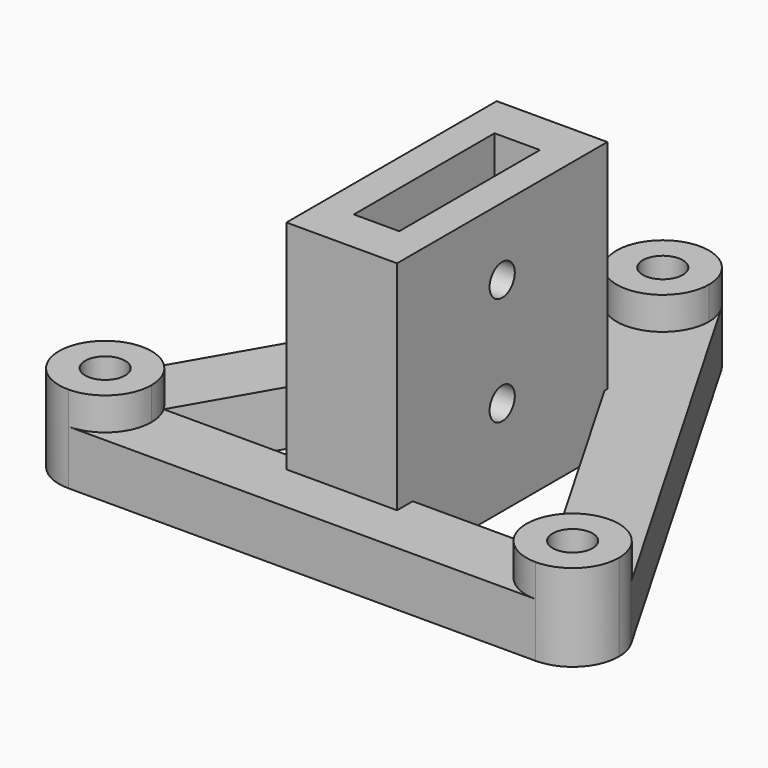
from build123d import *

# Parameters (mm, degrees)
F0_DEPTH = 5
F3_R     = 1.8375
F4_DEPTH = 8
F3_W     = 4.175
F3_H     = 16.175
F1_DEPTH = 25
F2_D     = 2.9
F6_D     = 2.9


with BuildPart() as f0:
    # F3 (on Top) → F0 (new body)
    with BuildSketch(Plane.XY):
        with BuildLine():
            Line((-21.5, -16.663031), (21.5, -16.663031))
            ThreePointArc((21.5, -16.663031), (17.819392, -14.538031), (17.819392, -10.288031))
            Line((17.819392, -10.288031), (5.0875, -10.288031))
            Line((5.0875, -10.288031), (5.0875, -12.0875))
            Line((5.0875, -12.0875), (-5.0875, -12.0875))
            Line((-5.0875, -12.0875), (-5.0875, -10.288031))
            Line((-5.0875, -10.288031), (-17.819392, -10.288031))
            ThreePointArc((-17.819392, -10.288031), (-17.394815, -11.31305), (-17.25, -12.413031))
            ThreePointArc((-17.25, -12.413031), (-18.494796, -15.418235), (-21.5, -16.663031))
        make_face()
        with BuildLine():
            ThreePointArc((17.819392, -10.288031), (21.5, -8.163031), (25.180608, -10.288031))
            Line((25.180608, -10.288031), (3.680608, 26.951062))
            ThreePointArc((3.680608, 26.951062), (4.105185, 25.926043), (4.25, 24.826062))
            ThreePointArc((4.25, 24.826062), (-1.099981, 20.720877), (-3.680608, 26.951062))
            Line((-3.680608, 26.951062), (-25.180608, -10.288031))
            ThreePointArc((-25.180608, -10.288031), (-21.5, -8.163031), (-17.819392, -10.288031))
            Line((-17.819392, -10.288031), (-5.0875, 11.764253))
            Line((-5.0875, 11.764253), (-5.0875, 12.0875))
            Line((-5.0875, 12.0875), (5.0875, 12.0875))
            Line((5.0875, 12.0875), (5.0875, 11.764253))
            Line((5.0875, 11.764253), (17.819392, -10.288031))
        make_face()
    extrude(amount=F0_DEPTH)


with BuildPart() as f4:
    # F3 (on Top) → F4 (new body)
    with BuildSketch(Plane.XY):
        with BuildLine():
            ThreePointArc((21.5, -16.663031), (24.505204, -15.418235), (25.75, -12.413031))
            ThreePointArc((25.75, -12.413031), (25.605185, -11.31305), (25.180608, -10.288031))
            ThreePointArc((25.180608, -10.288031), (21.5, -8.163031), (17.819392, -10.288031))
            ThreePointArc((17.819392, -10.288031), (17.819392, -14.538031), (21.5, -16.663031))
        make_face()
        with Locations((21.5, -12.413031)):
            Circle(F3_R, mode=Mode.SUBTRACT)
        with BuildLine():
            ThreePointArc((4.25, 24.826062), (4.105185, 25.926043), (3.680608, 26.951062))
            ThreePointArc((3.680608, 26.951062), (0, 29.076062), (-3.680608, 26.951062))
            ThreePointArc((-3.680608, 26.951062), (-1.099981, 20.720877), (4.25, 24.826062))
        make_face()
        with Locations((0, 24.826062)):
            Circle(F3_R, mode=Mode.SUBTRACT)
        with BuildLine():
            ThreePointArc((-25.180608, -10.288031), (-25.180608, -14.538031), (-21.5, -16.663031))
            ThreePointArc((-21.5, -16.663031), (-18.494796, -15.418235), (-17.25, -12.413031))
            ThreePointArc((-17.25, -12.413031), (-17.394815, -11.31305), (-17.819392, -10.288031))
            ThreePointArc((-17.819392, -10.288031), (-21.5, -8.163031), (-25.180608, -10.288031))
        make_face()
        with Locations((-21.5, -12.413031)):
            Circle(F3_R, mode=Mode.SUBTRACT)
    extrude(amount=F4_DEPTH)


with BuildPart() as f1:
    # F3 (on Top) → F1 (new body)
    with BuildSketch(Plane.XY):
        Polygon((5.0875, -10.288031), (5.0875, 11.764253), (5.0875, 12.0875), (-5.0875, 12.0875), (-5.0875, 11.764253), (-5.0875, -10.288031), (-5.0875, -12.0875), (5.0875, -12.0875), align=None)
        Rectangle(F3_W, F3_H, mode=Mode.SUBTRACT)
    extrude(amount=F1_DEPTH)

    # F2 (through all)
    with Locations(Plane.YZ.offset(5.0875)):
        with Locations((0, 18.75)):
            Hole(F2_D / 2)

    # F6 (through all)
    with Locations(Plane.YZ.offset(5.0875)):
        with Locations((0, 8.75)):
            Hole(F6_D / 2)


solid = Compound([f0.part, f4.part, f1.part])
